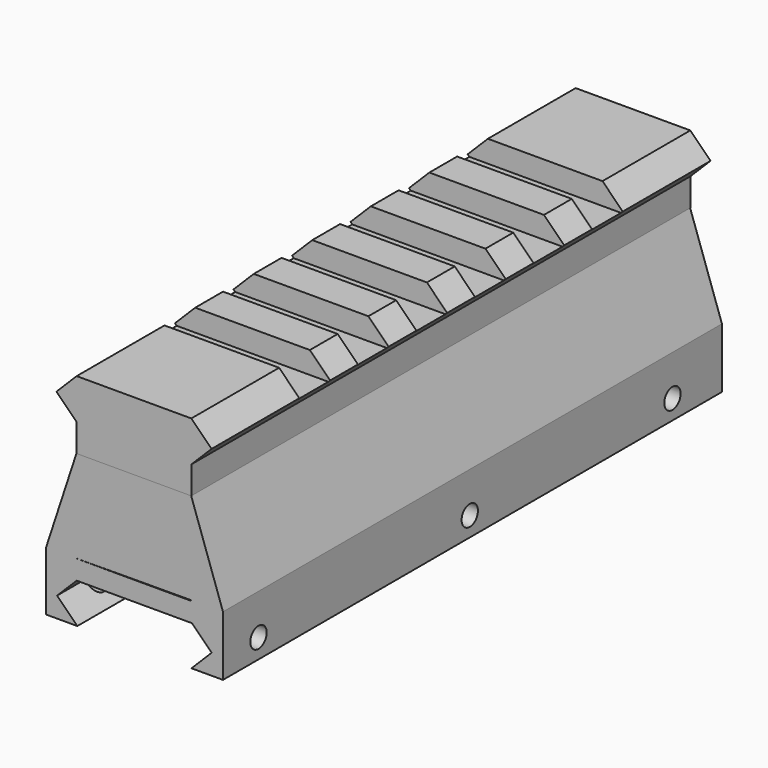
from build123d import *

# Parameters (mm, degrees)
F1_DEPTH       = 85.25
F2_W           = 55.8218845766
F2_H           = 5.25
F3_DEPTH       = 3
F5_DEPTH       = 85.2424
F8_D           = 2.794
F8_DEPTH       = 12.7
F8_TIP         = 0.8394022848
F8_ON_F7_D     = 2.794
F8_ON_F7_DEPTH = 12.7
F8_ON_F7_TIP   = 0.8394022848


with BuildPart() as f1:
    # F0 (on Front) → F1 (new body)
    with BuildSketch(Plane.XZ):
        Polygon((0, 3.79), (0, 0), (15.67, 0), (15.67, 3.79), (18.435, 6.555), (15.67, 9.32), (0, 9.32), (-2.765, 6.555), align=None)
    extrude(amount=F1_DEPTH)

    # F2 (on face) → F3 (cut)
    with BuildSketch(Plane.XY.offset(9.32)):
        with Locations((8.2114636898, -17.625)):
            Rectangle(F2_W, F2_H)
        with Locations((8.2114636898, -27.625)):
            Rectangle(F2_W, F2_H)
        with Locations((8.2114636898, -37.625)):
            Rectangle(F2_W, F2_H)
        with Locations((8.2114636898, -47.625)):
            Rectangle(F2_W, F2_H)
        with Locations((8.2114636898, -57.625)):
            Rectangle(F2_W, F2_H)
        with Locations((8.2114636898, -67.625)):
            Rectangle(F2_W, F2_H)
    extrude(amount=-F3_DEPTH, mode=Mode.SUBTRACT)

    # F4 (on Front) → F5 (join)
    with BuildSketch(Plane.XZ):
        Polygon((0.0019754424, -12.6376101786), (15.6015763059, -12.5601905993), (15.6015763059, 0), (15.6015763059, 0.1199992985), (0.0019754424, 0.1199992985), (0.0019754424, -2.5521272328), align=None)
        Polygon((18.4492052038, -17.9727599025), (15.6827729632, -20.7406985573), (19.9911782954, -20.7406985573), (19.9911782954, -12.5384053536), (15.6015763059, -12.5601905993), (15.6015763059, -12.6442629844), (0.0019754424, -12.6442629844), (0.0019754424, -12.6376101786), (-4.1879916127, -12.658404652), (-4.1879916127, -20.7361024804), (0.0811966573, -20.7361024804), (-2.6852355834, -17.9681638256), (0, -15.2933802456), (15.7593555839, -15.2933802456), align=None)
        Polygon((15.6015763059, -12.5601905993), (19.9911782954, -12.5384053536), (15.6015763059, 0.1199992985), (15.6015763059, 0), align=None)
        Polygon((-4.1879916127, -12.658404652), (0.0019754424, -12.6376101786), (0.0019754424, -2.5521272328), (0.0019754424, 0.1199992985), align=None)
    extrude(amount=F5_DEPTH)

    # F8 (one way)
    with BuildSketch(Plane.YZ):
        with Locations((-79.1830047965, -18.0843956769), (-43.074503541, -18.0843956769), (-8.4564629942, -18.0843956769)):
            Circle(F8_D / 2)
    extrude(amount=-F8_DEPTH, mode=Mode.SUBTRACT)
    with Locations(Plane.YZ):
        with Locations((-79.1830047965, -18.0843956769), (-43.074503541, -18.0843956769), (-8.4564629942, -18.0843956769)):
            with Locations((0, 0, -(F8_DEPTH + F8_TIP / 2))):  # 118° drill point
                Cone(0, F8_D / 2, F8_TIP, mode=Mode.SUBTRACT)

    # F8 on F7
    with Locations(Plane.YZ.offset(19.9911782954)):
        with Locations((-79.1751816869, -18.0775541812), (-43.0787950754, -18.0775541812), (-8.4547195584, -18.0775541812)):
            Hole(F8_ON_F7_D / 2, depth=F8_ON_F7_DEPTH)
            with Locations((0, 0, -(F8_ON_F7_DEPTH + F8_ON_F7_TIP / 2))):  # 118° drill point
                Cone(0, F8_ON_F7_D / 2, F8_ON_F7_TIP, mode=Mode.SUBTRACT)


solid = f1.part
